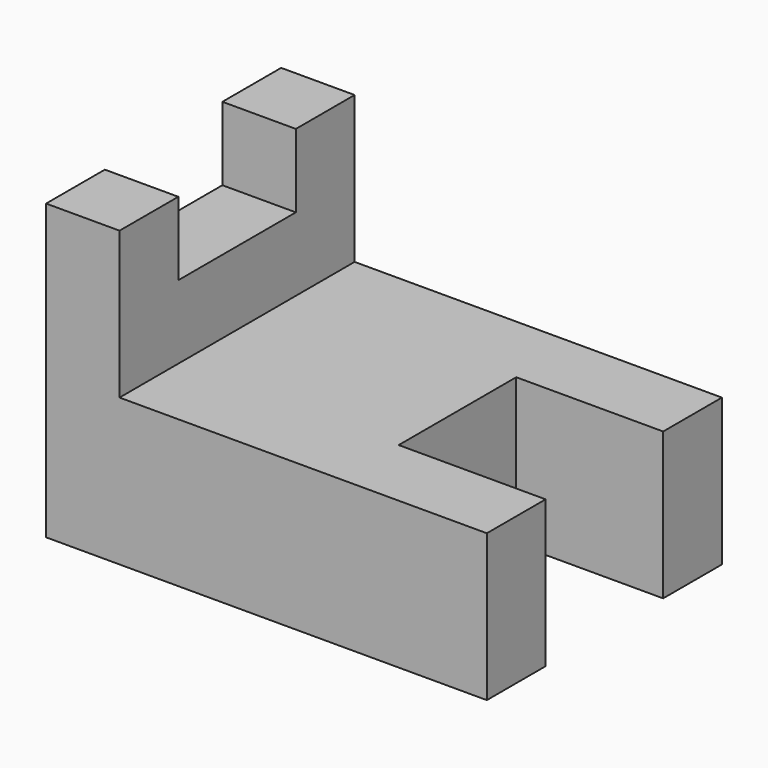
from build123d import *

# Parameters (mm, degrees)
F1_DEPTH = 25.4
F0_W     = 6.35
F0_H     = 12.7
F3_DEPTH = 25.4
F2_W     = 12.7
F2_H     = 12.7
F4_DEPTH = 12.7
F5_W     = 12.7
F5_H     = 6.35
F6_DEPTH = 6.35


with BuildPart() as f1:
    # F0 (on Front) → F1 (new body)
    with BuildSketch(Plane.XZ):
        Polygon((0, 12.7), (0, 0), (38.1, 0), (38.1, 12.7), (6.35, 12.7), align=None)
    extrude(amount=-F1_DEPTH)

    # F0 (on Front) → F3 (join)
    with BuildSketch(Plane.XZ):
        with Locations((3.175, 19.05)):
            Rectangle(F0_W, F0_H)
    extrude(amount=-F3_DEPTH)

    # F2 (on face) → F4 (cut)
    with BuildSketch(Plane.YZ.offset(38.1)):
        with Locations((12.7, 6.35)):
            Rectangle(F2_W, F2_H)
    extrude(amount=-F4_DEPTH, mode=Mode.SUBTRACT)

    # F5 (on face) → F6 (cut)
    with BuildSketch(Plane.YZ.offset(6.35)):
        with Locations((12.7, 22.225)):
            Rectangle(F5_W, F5_H)
    extrude(amount=-F6_DEPTH, mode=Mode.SUBTRACT)


solid = f1.part
